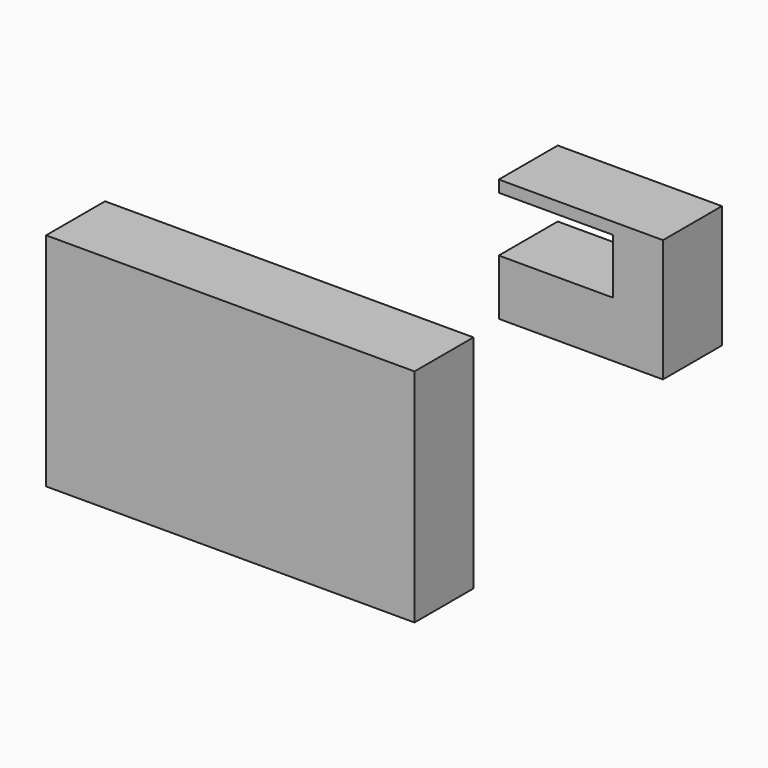
from build123d import *

# Parameters (mm, degrees)
F1_DEPTH = 12.7


with BuildPart() as f1:
    # F0 (on Front) → F1 (new body, symmetric)
    with BuildSketch(Plane.XZ):
        Polygon((63.5, -38.1), (63.5, 38.1), (29.485926, 38.1), (10.435926, 38.1), (-63.5, 38.1), (-63.5, -38.1), align=None)
        Polygon((131.932074, 82.714616), (92.539109, 82.714616), (92.539109, 63.5), (149.138249, 63.5), (149.138249, 105.778916), (92.539109, 105.778916), (92.539109, 101.764616), (131.932074, 101.764616), align=None)
    extrude(amount=F1_DEPTH, both=True)


solid = f1.part
